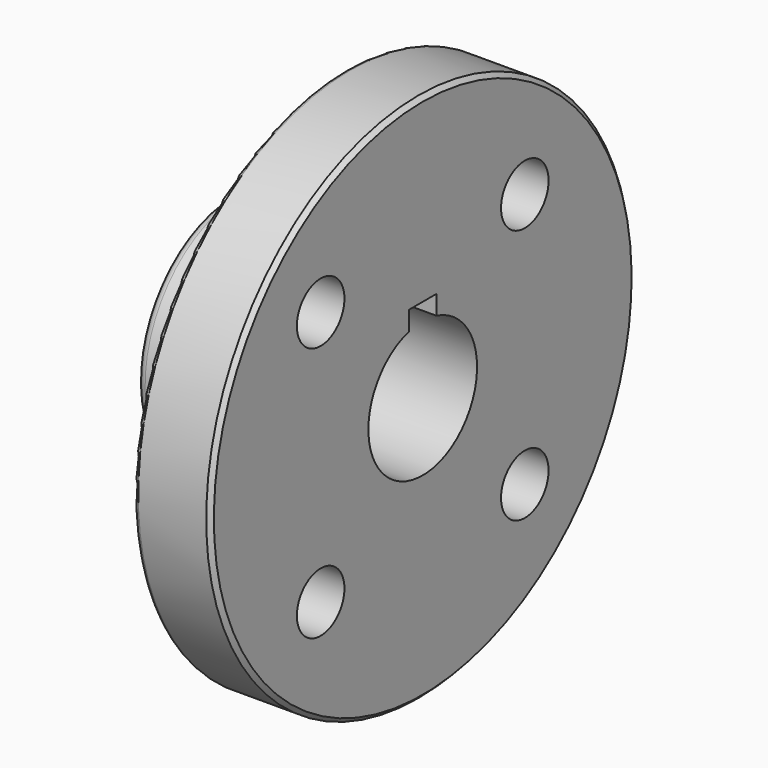
from build123d import *

# Parameters (mm, degrees)
F2_W     = 8
F2_H     = 8
F3_DEPTH = 45.001
F5_D     = 14
F6_R     = 2
F7_R     = 1
F8_SIZE  = 1


with BuildPart() as f1:
    # F0 (on Front) → F1 (revolve)
    with BuildSketch(Plane.XZ):
        Polygon((-45, 16), (0, 16), (0, 62.5), (-18, 62.5), (-18, 28), (-45, 28), align=None)
    revolve(axis=Axis((-18.421089, 0, 0), (1, 0, 0)))

    # F2 (on face) → F3 (cut, through all)
    with BuildSketch(Plane(origin=(-45, 0, 0), x_dir=(0, -1, 0), z_dir=(-1, 0, 0))):
        with Locations((0, 16)):
            Rectangle(F2_W, F2_H)
    extrude(amount=-F3_DEPTH, mode=Mode.SUBTRACT)

    # F5 (through all)
    with Locations(Plane(origin=(-18, 0, 0), x_dir=(0, -1, 0), z_dir=(-1, 0, 0))):
        with Locations((-30.052038, 30.052038), (-30.052038, -30.052038), (30.052038, -30.052038), (30.052038, 30.052038)):
            Hole(F5_D / 2)

    # F6
    f6_edges = [f1.edges().sort_by_distance(p)[0] for p in [
        (-45, 0, -28),
        (-18, 0, -28),
    ]]
    fillet(f6_edges, radius=F6_R)

    # F7
    f7_edges = [f1.edges().sort_by_distance(p)[0] for p in [
        (-18, 0, -62.5),
    ]]
    fillet(f7_edges, radius=F7_R)

    # F8
    f8_edges = [f1.edges().sort_by_distance(p)[0] for p in [
        (0, 0, -62.5),
    ]]
    chamfer(f8_edges, length=F8_SIZE)


solid = f1.part
